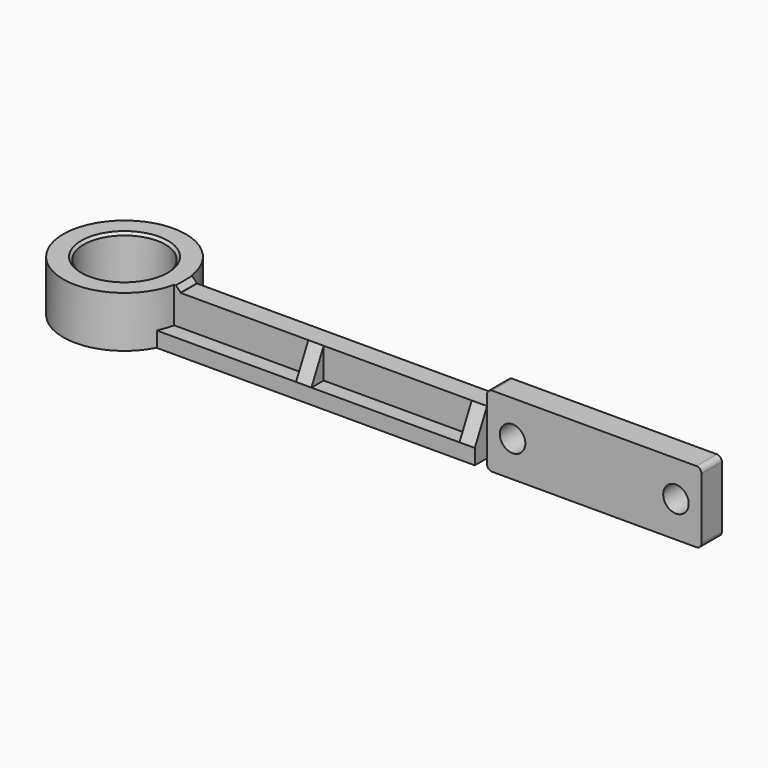
from build123d import *

# Parameters (mm, degrees)
SKETCH_R        = 8
PAD_DEPTH       = 10
SKETCH001_R     = 2.5
POCKET_DEPTH    = 14.501
SKETCH002_W     = 42
SKETCH002_H     = 5
PAD001_DEPTH    = 2
SKETCH003_W     = 42
SKETCH003_H     = 5
PAD002_DEPTH    = 2
SKETCH004_W     = 62.22
SKETCH004_H     = 3
PAD003_DEPTH    = 3
PAD004_DEPTH    = 3
PAD005_DEPTH    = 3
FILLET_R        = 1
SKETCH007_W     = 60
SKETCH007_H     = 1
POCKET001_DEPTH = 14.501
CHAMFER_SIZE    = 0.95
CHAMFER001_SIZE = 0.5


with BuildPart() as part:
    # Sketch → Pad (new body)
    with BuildSketch(Plane.XY):
        with BuildLine():
            Line((0, 0), (-103.263305, 0))
            ThreePointArc((-103.094119, 4), (-126.98928, 3.007106), (-103.263305, 0))
            Line((-103.094119, 4), (-42, 4))
            Line((-42, 4), (-42, 5))
            Line((-42, 5), (0, 5))
            Line((0, 5), (0, 0))
        make_face()
        with Locations((-115, 2.5)):
            Circle(SKETCH_R, mode=Mode.SUBTRACT)
    extrude(amount=PAD_DEPTH)

    # Sketch001 (on Face1 of Pad) → Pocket (cut, through all)
    with BuildSketch(Plane.XZ):
        with Locations((-37, 5)):
            Circle(SKETCH001_R)
        with Locations((-5, 5)):
            Circle(SKETCH001_R)
    extrude(amount=-POCKET_DEPTH, mode=Mode.SUBTRACT)

    # Sketch002 (on Face4 of Pocket) → Pad001 (join)
    with BuildSketch(Plane.XY.offset(10)):
        with Locations((-21, 2.5)):
            Rectangle(SKETCH002_W, SKETCH002_H)
    extrude(amount=PAD001_DEPTH)

    # Sketch003 (on Face3 of Pad001) → Pad002 (join)
    with BuildSketch(Plane(origin=(0, 0, 0), x_dir=(1, 0, 0), z_dir=(0, 0, -1))):
        with Locations((-21, -2.5)):
            Rectangle(SKETCH003_W, SKETCH003_H)
    extrude(amount=PAD002_DEPTH)

    # Sketch004 → Pad003 (join)
    with BuildSketch(Plane.XZ):
        with Locations((-73.11, 1.5)):
            Rectangle(SKETCH004_W, SKETCH004_H)
    extrude(amount=PAD003_DEPTH)

    # Sketch005 → Pad004 (join)
    with BuildSketch(Plane.YZ.offset(-42)):
        Polygon((-3, 3), (0, 3), (0, 9), align=None)
    extrude(amount=-PAD004_DEPTH)

    # Sketch006 → Pad005 (join)
    with BuildSketch(Plane.YZ.offset(-74)):
        Polygon((-3, 3), (0, 3), (0, 9), align=None)
    extrude(amount=-PAD005_DEPTH)

    # Fillet
    fillet_edges = [part.edges().sort_by_distance(p)[0] for p in [
        (0, 2.5, -2),
        (0, 2.5, 12),
        (-42, 2.5, 12),
        (-42, 2.5, -2),
    ]]
    fillet(fillet_edges, radius=FILLET_R)

    # Sketch007 (on Face4 of Fillet) → Pocket001 (cut, through all)
    with BuildSketch(Plane.XZ):
        with Locations((-72, 9.5)):
            Rectangle(SKETCH007_W, SKETCH007_H)
    extrude(amount=-POCKET001_DEPTH, mode=Mode.SUBTRACT)

    # Chamfer
    chamfer_edges = [part.edges().sort_by_distance(p)[0] for p in [
        (-102, 2, 10),
    ]]
    chamfer(chamfer_edges, length=CHAMFER_SIZE)

    # Chamfer001
    chamfer001_edges = [part.edges().sort_by_distance(p)[0] for p in [
        (-123, 2.5, 10),
    ]]
    chamfer(chamfer001_edges, length=CHAMFER001_SIZE)


solid = part.part
